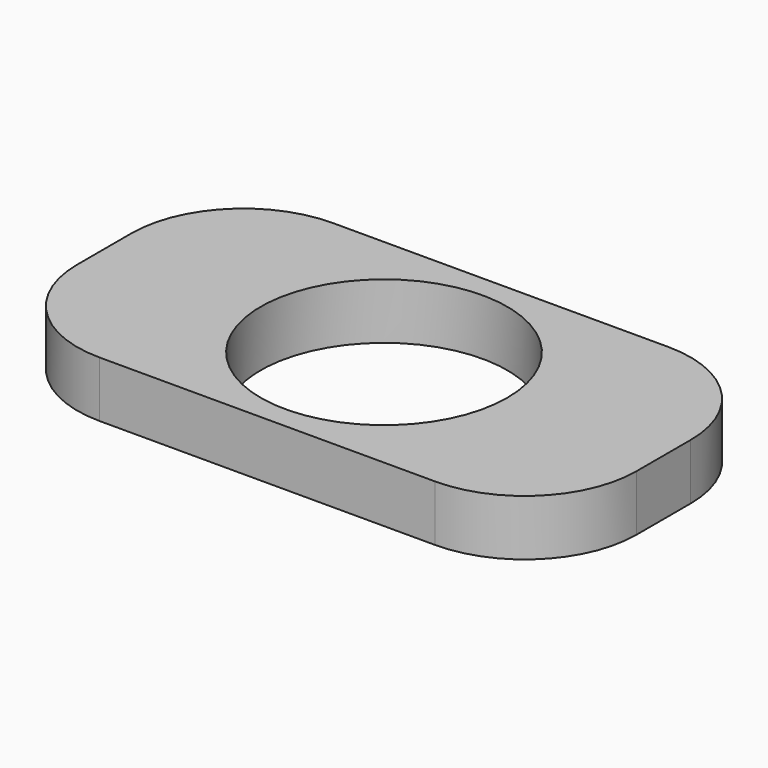
from build123d import *

# Parameters (mm, degrees)
F0_R     = 11.025
F1_DEPTH = 2.5
F4_R     = 10


with BuildPart() as f1:
    # F0 (on Top) → F1 (new body, symmetric)
    with BuildSketch(Plane.XY):
        with BuildLine():
            ThreePointArc((0, -13.025), (-13.025, 0), (0, 13.025))
            Line((0, 13.025), (-25, 13.025))
            Line((-25, 13.025), (-25, -13.025))
            Line((-25, -13.025), (0, -13.025))
        make_face()
        with BuildLine():
            ThreePointArc((0, 13.025), (9.210066, 9.210066), (13.025, 0))
            ThreePointArc((13.025, 0), (9.210066, -9.210066), (0, -13.025))
            Line((0, -13.025), (25, -13.025))
            Line((25, -13.025), (25, 13.025))
            Line((25, 13.025), (0, 13.025))
        make_face()
        with BuildLine():
            ThreePointArc((0, -13.025), (9.210066, -9.210066), (13.025, 0))
            ThreePointArc((13.025, 0), (9.210066, 9.210066), (0, 13.025))
            ThreePointArc((0, 13.025), (-13.025, 0), (0, -13.025))
        make_face()
        Circle(F0_R, mode=Mode.SUBTRACT)
    extrude(amount=F1_DEPTH, both=True)

    # F2 (on Right) → F3 (revolve, cut)
    with BuildSketch(Plane.YZ):
        with BuildLine():
            Line((6.4, 2.5), (5.430738, 2.5))
            Line((5.430738, 2.5), (5.430738, -2.5))
            Line((5.430738, -2.5), (6.4, -2.5))
            add(Edge.make_bspline(
                [(6.4, 2.5), (6.199995, 1.666646), (6.3, -2.1e-05), (6.200005, -1.666687), (6.4, -2.5)],
                knots=[0, 0, 0, 0, 2.504557, 5.008992, 5.008992, 5.008992, 5.008992], degree=3))
        make_face()
    revolve(axis=Axis((0, 0, 5.107941), (0, 0, 1)), mode=Mode.SUBTRACT)

    # F4
    f4_edges = [f1.edges().sort_by_distance(p)[0] for p in [
        (-25, -13.025, 0),
        (-25, 13.025, 0),
        (25, -13.025, 0),
        (25, 13.025, 0),
    ]]
    fillet(f4_edges, radius=F4_R)


solid = f1.part
